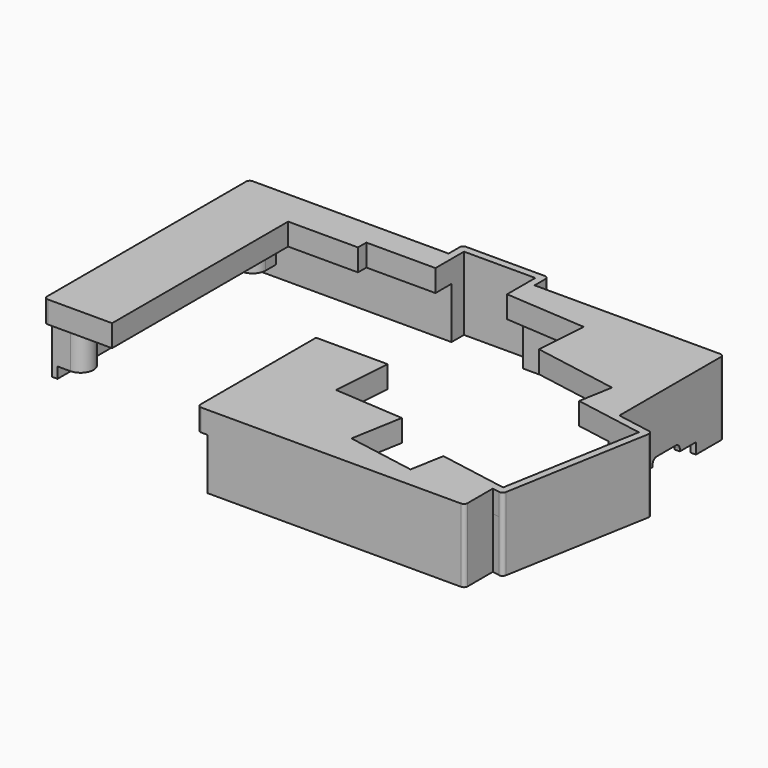
from build123d import *

# Parameters (mm, degrees)
SKETCH029_R     = 1.6
PAD013_DEPTH    = 6
POCKET001_DEPTH = 6.001
POCKET002_DEPTH = 6.001
PAD014_DEPTH    = 1.5
PAD015_DEPTH    = 20
SKETCH034_W     = 0.2
SKETCH034_H     = 14
POCKET003_DEPTH = 1.5
SKETCH035_W     = 0.2
SKETCH035_H     = 14
POCKET004_DEPTH = 1.5
SKETCH036_R     = 1.6
PAD016_DEPTH    = 17
POCKET005_DEPTH = 11.8810475508
POCKET006_DEPTH = 6.251
FILLET001_R     = 1


with BuildPart() as part:
    # Sketch029 (on Face1 of Binder) → Pad013 (new body)
    with BuildSketch(Plane.XY.offset(3)):
        with BuildLine():
            Line((-66.15, -41.34), (-56.1, -41.34))
            Line((-56.1, -41.34), (-56.1, -37.84))
            ThreePointArc((-52.6, -34.34), (-55.0748725626, -35.3651274374), (-56.1, -37.84))
            Line((-52.6, -34.34), (-49.1, -34.34))
            Line((-49.1, -34.34), (-49.1, 17.6675))
            Line((-49.1, 17.6675), (-37.05, 17.6675))
            Line((-37.05, 17.6675), (-37.05, 20.525))
            ThreePointArc((-30.05, 20.525), (-33.55, 24.025), (-37.05, 20.525))
            Line((-30.05, 20.525), (-11.725, 20.525))
            Line((-11.725, 20.525), (-11.725, 30.775))
            Line((-11.725, 30.775), (11.725, 30.775))
            Line((11.725, 30.775), (11.725, 20.4910582095))
            Line((11.725, 20.4910582095), (33.4250449924, 18.9736432442))
            Line((33.4250449924, 18.9736432442), (32.8973962111, 11.4279141223))
            Line((32.8973962111, 11.4279141223), (36.3697437262, 11.1851039306))
            ThreePointArc((39.5724232036, 7.0858611329), (38.8836355297, 9.8484463434), (36.3697437262, 11.1851039306))
            Line((39.5724232036, 7.0858611329), (38.9679840019, 3.657916077))
            Line((38.9679840019, 3.657916077), (55.7764699529, 0.694126499))
            Line((55.7764699529, 0.694126499), (54.2483659895, -7.9721817275))
            Line((54.2483659895, -7.9721817275), (73.7229393053, -11.4060744409))
            Line((73.7229393053, -11.4060744409), (66.3428917544, -53.2604039439))
            Line((66.3428917544, -53.2604039439), (53.7619727097, -51.0420484742))
            Line((53.5362300787, -52.3222985531), (53.7619727097, -51.0420484742))
            ThreePointArc((49.4816343214, -55.1613570668), (52.0969209571, -54.5815627814), (53.5362300787, -52.3222985531))
            Line((46.0348071858, -54.553588445), (49.4816343214, -55.1613570668))
            Line((46.0348071858, -54.553588445), (45.3402144751, -58.492819457))
            Line((45.3402144751, -58.492819457), (23.6744439088, -54.6725595483))
            Line((23.6744439088, -54.6725595483), (26.1271109464, -40.7627935689))
            Line((26.1271109464, -40.7627935689), (7.2862718147, -39.4453137541))
            Line((7.2862718147, -39.4453137541), (7.9432561527, -30.05))
            Line((7.9432561527, -30.05), (-0.05, -30.05))
            Line((-0.05, -30.05), (-0.05, -33.55))
            ThreePointArc((-3.55, -37.05), (-1.0751246396, -36.0248753604), (-0.05, -33.55))
            Line((-3.55, -37.05), (-7.05, -37.05))
            Line((-7.05, -37.05), (-7.05, -62.34))
            Line((-9.525, -62.34), (-7.05, -62.34))
            Line((-9.525, -21.9075), (-9.525, -62.34))
            Line((9.9912370186, -21.9075), (-9.525, -21.9075))
            Line((8.8605695876, -38.0767975787), (9.9912370186, -21.9075))
            Line((27.864164745, -39.4056584035), (8.8605695876, -38.0767975787))
            Line((25.3831664066, -53.4760991747), (27.864164745, -39.4056584035))
            Line((44.1437541015, -56.7840969593), (25.3831664066, -53.4760991747))
            Line((45.7977529938, -47.4038031118), (44.1437541015, -56.7840969593))
            Line((64.5583406887, -50.7118008964), (45.7977529938, -47.4038031118))
            Line((71.1743362578, -13.1906255066), (64.5583406887, -50.7118008964))
            Line((52.4137485629, -9.8826277221), (71.1743362578, -13.1906255066))
            Line((54.0677474552, -0.5023338746), (52.4137485629, -9.8826277221))
            Line((30.870571009, 3.5879542091), (54.0677474552, -0.5023338746))
            Line((31.8507472195, 17.6051270688), (30.870571009, 3.5879542091))
            Line((9.525, 19.1662953961), (31.8507472195, 17.6051270688))
            Line((9.525, 28.575), (9.525, 19.1662953961))
            Line((-9.525, 28.575), (9.525, 28.575))
            Line((-9.525, 19.05), (-9.525, 28.575))
            Line((-28.575, 19.05), (-9.525, 19.05))
            Line((-28.575, 16.1925), (-28.575, 19.05))
            Line((-47.625, 16.1925), (-28.575, 16.1925))
            Line((-47.625, -43.815), (-47.625, 16.1925))
            Line((-66.15, -43.815), (-47.625, -43.815))
            Line((-66.15, -41.34), (-66.15, -43.815))
        make_face()
        with Locations((-33.55, 20.525)):
            Circle(SKETCH029_R, mode=Mode.SUBTRACT)
        with Locations((-52.599996, -37.840004)):
            Circle(SKETCH029_R, mode=Mode.SUBTRACT)
        with Locations((-3.5499944477, -33.5500055523)):
            Circle(SKETCH029_R, mode=Mode.SUBTRACT)
        with Locations((50.0894046049, -51.7145323045)):
            Circle(SKETCH029_R, mode=Mode.SUBTRACT)
        with Locations((36.1256015808, 7.6936340617)):
            Circle(SKETCH029_R, mode=Mode.SUBTRACT)
    extrude(amount=PAD013_DEPTH)

    # Sketch030 (on Vertex106 of Pad013) → Pocket001 (cut, through all)
    with BuildSketch(Plane(origin=(9.525, 28.575, 9), x_dir=(1, 0, 0), z_dir=(0, 0, 1))):
        Polygon((0, 0), (0, -19.05), (0.2, -19.05), (0.2, 0.2), (-19.25, 0.2), (-19.25, -19.05), (-19.05, -19.05), (-19.05, 0), align=None)
    extrude(amount=-POCKET001_DEPTH, mode=Mode.SUBTRACT)

    # Sketch031 (on Vertex111 of Pocket001) → Pocket002 (cut, through all)
    with BuildSketch(Plane(origin=(64.5583406887, -50.7118008964, 9), x_dir=(1, 0, 0), z_dir=(0, 0, 1))):
        Polygon((6.6159955691, 37.5211753898), (0, 0), (-18.7605876949, 3.3079977846), (-18.7953173304, 3.111036234), (0.1622319151, -0.2316911861), (6.8476867552, 37.6834073048), (-12.1098624902, 41.0261347249), (-12.1445921258, 40.8291731743), align=None)
    extrude(amount=-POCKET002_DEPTH, mode=Mode.SUBTRACT)

    # Sketch032 (on Face5 of Pocket002) → Pad014 (join)
    with BuildSketch(Plane(origin=(0, 0, 9), x_dir=(-1, 0, 0), z_dir=(0, 0, -1))):
        Polygon((11.725, 26.025), (11.725, 19.05), (28.575, 19.05), (28.575, 16.1925), (47.625, 16.1925), (47.625, -43.815), (66.15, -43.815), (66.15, 26.025), align=None)
        Polygon((-11.725, 26.025), (-63.3428917544, 26.025), (-63.3428917544, -11.6066452204), (-52.4484781984, -9.6856661715), (-54.0677474552, -0.5023338746), (-30.870571009, 3.5879542091), (-31.8507472195, 17.6051270688), (-11.725, 19.0124564098), align=None)
        Polygon((9.525, -62.34), (9.525, -21.9075), (-9.9912370186, -21.9075), (-8.8605695876, -38.0767975787), (-27.864164745, -39.4056584035), (-25.3831664066, -53.4760991747), (-44.1437541015, -56.7840969593), (-45.7630233582, -47.6007646624), (-63.3428917544, -50.700569778), (-63.3428917544, -62.34), align=None)
    extrude(amount=PAD014_DEPTH)

    # Sketch033 (on Face78 of Pad014) → Pad015 (join)
    with BuildSketch(Plane(origin=(0, 0, 9), x_dir=(-1, 0, 0), z_dir=(0, 0, -1))):
        Polygon((66.15, -41.34), (66.15, 26.025), (11.725, 26.025), (11.725, 30.775), (-11.725, 30.775), (-11.725, 26.025), (-63.3428917544, 26.025), (-63.3428917544, -9.5757919966), (-73.7229393053, -11.4060744409), (-66.3428917544, -53.2604039439), (-63.3428917544, -52.7314230018), (-63.3428917544, -62.34), (7.05, -62.34), (7.05, -60.84), (-61.8428917544, -60.84), (-61.8428917544, -50.4360793069), (-64.7205726037, -50.9434920825), (-71.4060274439, -13.0283935916), (-61.8428917544, -11.3421547493), (-61.8428917544, 24.525), (-9.725, 24.525), (-9.725, 28.775), (9.725, 28.775), (9.725, 24.525), (64.65, 24.525), (64.65, -41.34), align=None)
    extrude(amount=PAD015_DEPTH)

    # Sketch034 (on Vertex1 of Pad015) → Pocket003 (cut)
    with BuildSketch(Plane(origin=(-66.15, -41.34, 3), x_dir=(0, -1, 0), z_dir=(-1, 0, 0))):
        with Locations((-0.1, -7)):
            Rectangle(SKETCH034_W, SKETCH034_H)
    extrude(amount=-POCKET003_DEPTH, mode=Mode.SUBTRACT)

    # Sketch035 → Pocket004 (cut)
    with BuildSketch(Plane(origin=(-7.05, -62.34, 3), x_dir=(1, 0, 0), z_dir=(0, -1, 0))):
        with Locations((0.1, -7)):
            Rectangle(SKETCH035_W, SKETCH035_H)
    extrude(amount=-POCKET004_DEPTH, mode=Mode.SUBTRACT)

    # Sketch036 (on Face27 of Pocket004) → Pad016 (join)
    with BuildSketch(Plane.XY.offset(9)):
        with BuildLine():
            Line((-64.65, 24.525), (-57.65, 24.525))
            Line((-57.65, 24.525), (-57.65, 21.025))
            ThreePointArc((-61.15, 17.525), (-58.6751262658, 18.5501262658), (-57.65, 21.025))
            Line((-64.65, 17.525), (-61.15, 17.525))
            Line((-64.65, 24.525), (-64.65, 17.525))
        make_face()
        with Locations((-61.15, 21.025)):
            Circle(SKETCH036_R, mode=Mode.SUBTRACT)
        with BuildLine():
            Line((-64.65, -34.14), (-64.65, -41.14))
            Line((-64.65, -41.14), (-61.15, -41.14))
            ThreePointArc((-61.15, -41.14), (-57.65, -37.64), (-61.15, -34.14))
            Line((-64.65, -34.14), (-61.15, -34.14))
        make_face()
        with Locations((-61.15, -37.64)):
            Circle(SKETCH036_R, mode=Mode.SUBTRACT)
        with BuildLine():
            Line((61.8428917544, -53.84), (61.8428917544, -60.84))
            Line((61.8428917544, -60.84), (54.8428917544, -60.84))
            Line((54.8428917544, -60.84), (54.8428917544, -57.34))
            ThreePointArc((58.3428917544, -53.84), (55.8680180203, -54.8651262658), (54.8428917544, -57.34))
            Line((61.8428917544, -53.84), (58.3428917544, -53.84))
        make_face()
        with Locations((58.3428917544, -57.34)):
            Circle(SKETCH036_R, mode=Mode.SUBTRACT)
        with BuildLine():
            Line((61.8428917544, 24.525), (61.8428917544, 17.525))
            Line((61.8428917544, 17.525), (58.3428917544, 17.525))
            ThreePointArc((54.8428917544, 21.025), (55.8680180203, 18.5501262658), (58.3428917544, 17.525))
            Line((54.8428917544, 24.525), (54.8428917544, 21.025))
            Line((54.8428917544, 24.525), (61.8428917544, 24.525))
        make_face()
        with Locations((58.3428917544, 21.025)):
            Circle(SKETCH036_R, mode=Mode.SUBTRACT)
    extrude(amount=-PAD016_DEPTH)

    # Sketch037 (on Vertex85 of Pad016) → Pocket005 (cut, through all)
    with BuildSketch(Plane(origin=(61.8428917544, 16.525, -11), x_dir=(0, 1, 0), z_dir=(1, 0, 0))):
        with BuildLine():
            Line((0, 0), (0, 3))
            Line((-5.5, 3), (0, 3))
            Line((-5.5, 3.6), (-5.5, 3))
            ThreePointArc((-5.5, 3.6), (-5.9100505063, 4.5899494937), (-6.9, 5))
            Line((-13.4, 5), (-6.9, 5))
            ThreePointArc((-13.4, 5), (-14.3899494937, 4.5899494937), (-14.8, 3.6))
            Line((-14.8, 3), (-14.8, 3.6))
            Line((-20.3, 3), (-14.8, 3))
            Line((-20.3, 3), (-20.3, 0))
            Line((-20.3, 0), (0, 0))
        make_face()
    extrude(amount=POCKET005_DEPTH, mode=Mode.SUBTRACT)

    # Sketch038 (on Vertex75 of Pocket005) → Pocket006 (cut, through all)
    with BuildSketch(Plane(origin=(48.8428917544, 24.525, -11), x_dir=(1, 0, 0), z_dir=(0, -1, 0))):
        with BuildLine():
            ThreePointArc((-3.6, 7), (-7, 10.4), (-10.4, 7))
            Line((-10.4, 7), (-10.4, 0))
            Line((-10.4, 0), (-3.6, 0))
            Line((-3.6, 0), (-3.6, 7))
        make_face()
    extrude(amount=-POCKET006_DEPTH, mode=Mode.SUBTRACT)

    # Fillet001
    fillet001_edges = [part.edges().sort_by_distance(p)[0] for p in [
        (-9.525, -62.34, 6),
        (-66.15, -43.815, 6),
        (63.342892, -62.34, -1),
        (66.342892, -53.260404, -1),
        (73.722939, -11.406074, -1),
        (63.342892, 26.025, -1),
        (-66.15, 26.025, -1),
        (-11.725, 30.775, -1),
        (11.725, 30.775, -1),
    ]]
    fillet(fillet001_edges, radius=FILLET001_R)


solid = part.part
